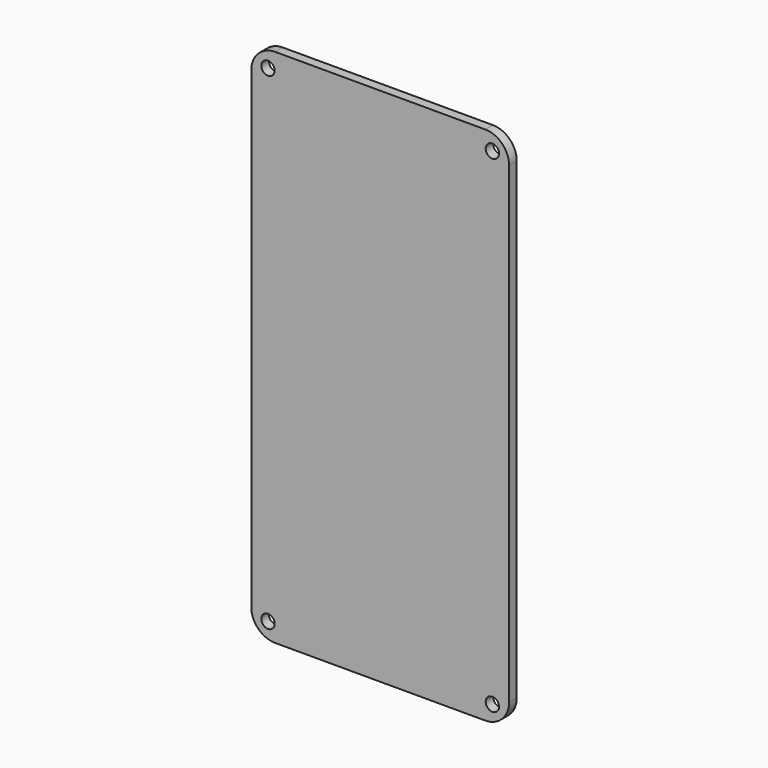
from build123d import *

# Parameters (mm, degrees)
SKETCH003_R  = 1.4
PAD003_DEPTH = 30
BOX013_W     = 54
BOX013_H     = 2
BOX013_DEPTH = 109
FILLET006_R  = 5


with BuildPart() as pad003:
    # Sketch003 → Pad003 (new body)
    with BuildSketch(Plane.XZ.offset(10)):
        with Locations((139, 116)):
            Circle(SKETCH003_R)
        with Locations((186, 116)):
            Circle(SKETCH003_R)
        with Locations((139, 14)):
            Circle(SKETCH003_R)
        with Locations((186, 14)):
            Circle(SKETCH003_R)
    extrude(amount=-PAD003_DEPTH)


with BuildPart() as cut008:
    # Box013 → Box013 (new body)
    with BuildSketch(Plane(origin=(135.5, 0, 10.5), x_dir=(1, 0, 0), z_dir=(0, 0, 1))):
        with Locations((27, 1)):
            Rectangle(BOX013_W, BOX013_H)
    extrude(amount=BOX013_DEPTH)

    # Fillet006
    fillet006_edges = [cut008.edges().sort_by_distance(p)[0] for p in [
        (135.5, 1, 119.5),
        (135.5, 1, 10.5),
        (189.5, 1, 119.5),
        (189.5, 1, 10.5),
    ]]
    fillet(fillet006_edges, radius=FILLET006_R)

    # Cut008: cut Pad003
    add(pad003.part, mode=Mode.SUBTRACT)


solid = cut008.part
